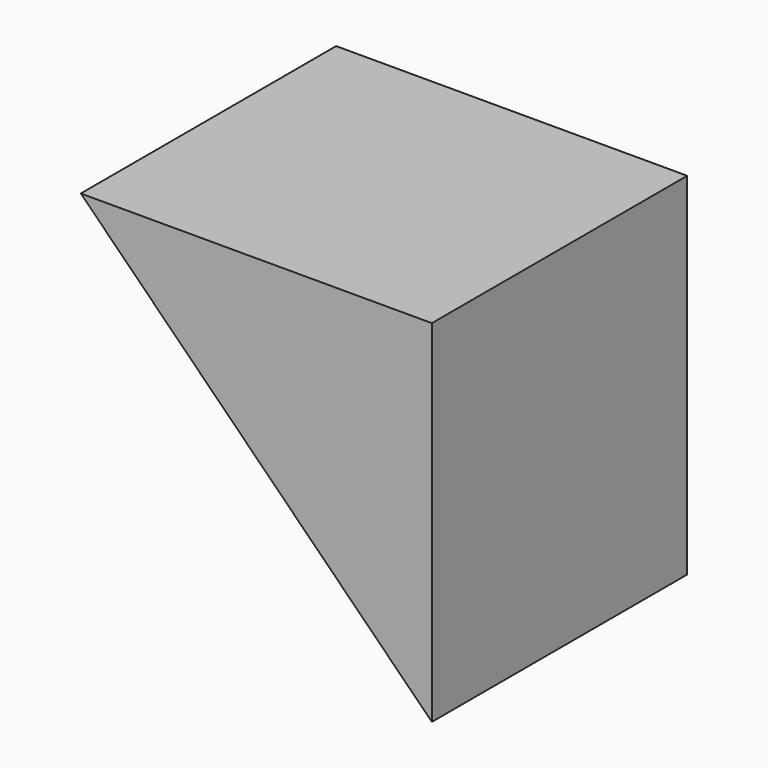
from build123d import *

# Parameters (mm, degrees)
F1_DEPTH = 6.35
F2_R     = 3.175
F3_DEPTH = 1.27
F5_DEPTH = 12.7


with BuildPart() as f1:
    # F0 (on Front) → F1 (new body, symmetric)
    with BuildSketch(Plane.XZ):
        Polygon((-25.4, 25.4), (0, 0), (0, 25.4), align=None)
    extrude(amount=F1_DEPTH, both=True)

    # F2 (on face) → F3 (cut)
    with BuildSketch(Plane(origin=(0, 0, 0), x_dir=(0.7071067812, 0, -0.7071067812), z_dir=(-0.7071067812, 0, -0.7071067812))):
        with Locations((-13.97, 0)):
            Circle(F2_R)
        with Locations((-6.35, 0)):
            Circle(F2_R)
    extrude(amount=-F3_DEPTH, mode=Mode.SUBTRACT)

    # F4 (on face) → F5 (cut)
    with BuildSketch(Plane.XZ.offset(6.35)):
        Polygon((-25.4, 25.4), (-13.97, 13.97), (0, 13.97), (0, 25.4), align=None)
    extrude(amount=-F5_DEPTH, mode=Mode.SUBTRACT)


solid = f1.part
